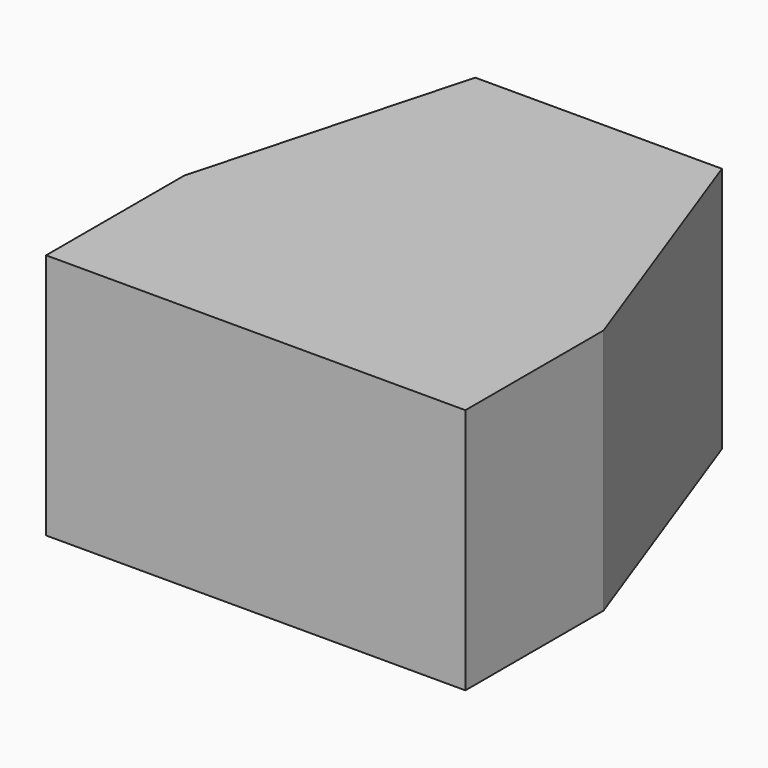
from build123d import *

# Parameters (mm, degrees)
EXTRUDE_DEPTH = 10


with BuildPart() as part:
    # path6074 → Extrude (new body)
    with BuildSketch(Plane(origin=(48.500139, -101.999973, 0), x_dir=(0, 1, 0), z_dir=(0, 0, 1))):
        with BuildLine():
            add(Edge.make_bspline(
                [(8.999967, 5.500181), (5.3333, 6.500181), (1.666792, 7.499997), (-1.999878, 8.499997)],
                knots=[0, 0, 0, 0, 1, 1, 1, 1], degree=3))
            add(Edge.make_bspline(
                [(-1.999878, 8.499997), (-8.999967, 8.499997)],
                knots=[0, 0, 26.45703, 26.45703], degree=1))
            add(Edge.make_bspline(
                [(-8.999967, 8.499997), (-8.999967, -8.499997)],
                knots=[0, 0, 64.25195, 64.25195], degree=1))
            add(Edge.make_bspline(
                [(-8.999967, -8.499997), (-1.999878, -8.499997)],
                knots=[0, 0, 26.45703, 26.45703], degree=1))
            add(Edge.make_bspline(
                [(-1.999878, -8.499997), (1.666792, -7.166664), (5.3333, -5.833058), (8.999967, -4.499725)],
                knots=[0, 0, 0, 0, 1, 1, 1, 1], degree=3))
            add(Edge.make_bspline(
                [(8.999967, -4.499725), (8.999965, -1.166393), (8.999967, 2.166846), (8.999967, 5.500181)],
                knots=[0, 0, 0, 0, 1, 1, 1, 1], degree=3))
        make_face()
    extrude(amount=EXTRUDE_DEPTH)


solid = part.part
